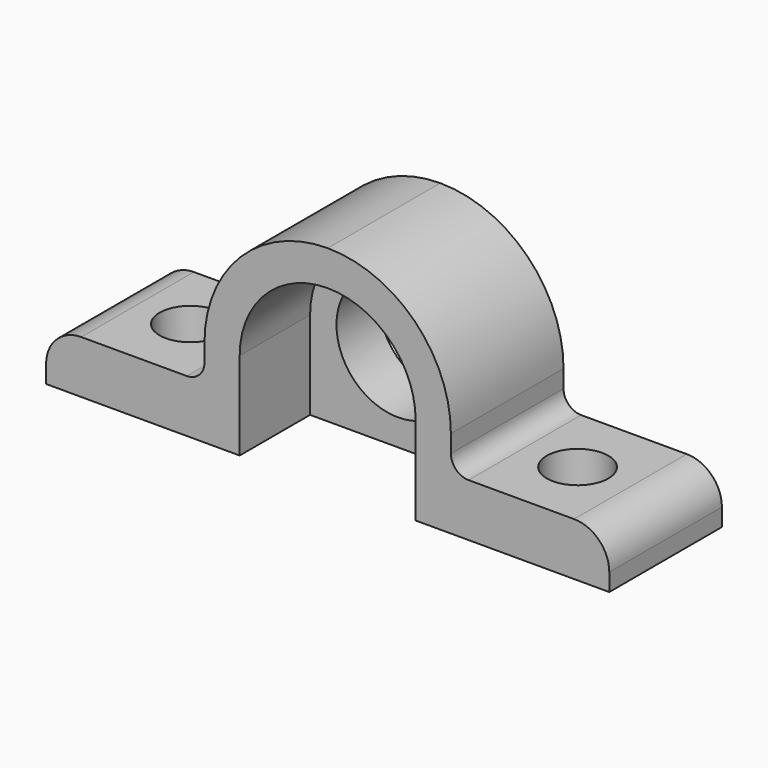
from build123d import *

# Parameters (mm, degrees)
F0_R     = 3.5
F1_DEPTH = 8
F2_R     = 1.75
F3_DEPTH = 12.001
F5_DEPTH = 5


with BuildPart() as f1:
    # F0 (on Front) → F1 (new body)
    with BuildSketch(Plane.XZ):
        with BuildLine():
            Line((-16, 1), (-16, 0))
            Line((-16, 0), (16, 0))
            Line((16, 0), (16, 1))
            ThreePointArc((16, 1), (15.414214, 2.414214), (14, 3))
            Line((14, 3), (8, 3))
            ThreePointArc((8, 3), (7.292893, 3.292893), (7, 4))
            Line((7, 4), (7, 5))
            ThreePointArc((7, 5), (4.949747, 9.949747), (0, 12))
            ThreePointArc((0, 12), (-4.949747, 9.949747), (-7, 5))
            Line((-7, 5), (-7, 4))
            ThreePointArc((-7, 4), (-7.292893, 3.292893), (-8, 3))
            Line((-8, 3), (-14, 3))
            ThreePointArc((-14, 3), (-15.414214, 2.414214), (-16, 1))
        make_face()
        with Locations((0, 5)):
            Circle(F0_R, mode=Mode.SUBTRACT)
    extrude(amount=F1_DEPTH)

    # F2 (on face) → F3 (cut, through all)
    with BuildSketch(Plane(origin=(0, 0, 0), x_dir=(1, 0, 0), z_dir=(0, 0, -1))):
        with Locations((-11, 4)):
            Circle(F2_R)
        with Locations((11, 4)):
            Circle(F2_R)
    extrude(amount=-F3_DEPTH, mode=Mode.SUBTRACT)

    # F4 (on face) → F5 (cut)
    with BuildSketch(Plane.XZ.offset(8)):
        with BuildLine():
            Line((5, 0), (5, 5))
            ThreePointArc((5, 5), (0, 10), (-5, 5))
            Line((-5, 5), (-5, 0))
            Line((-5, 0), (5, 0))
        make_face()
    extrude(amount=-F5_DEPTH, mode=Mode.SUBTRACT)


solid = f1.part
